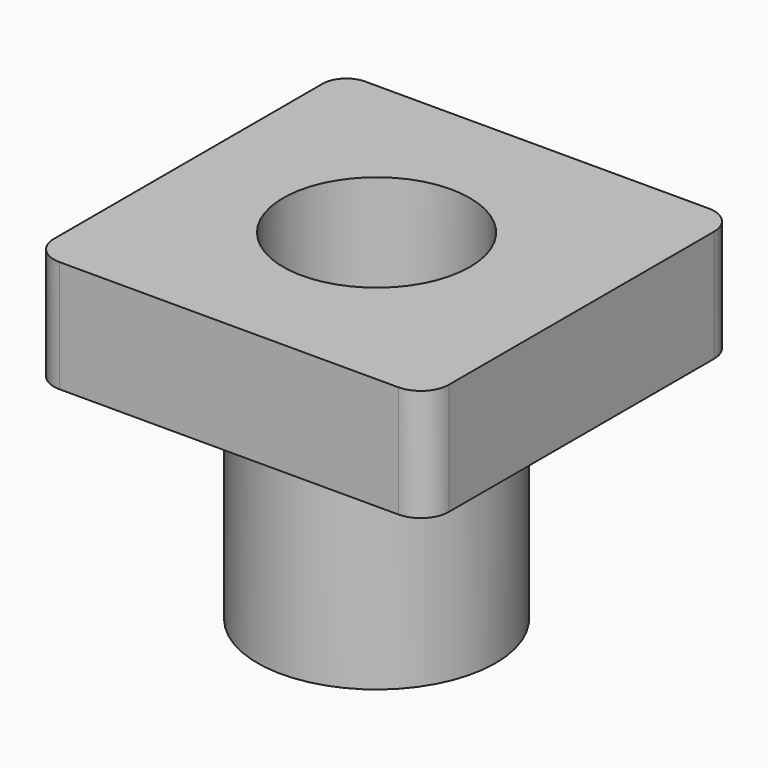
from build123d import *

# Parameters (mm, degrees)
F0_R     = 21.191206
F1_DEPTH = 25.4
F2_R     = 27.018944
F2_R_2   = 21.191206
F3_DEPTH = 51.816


with BuildPart() as f1:
    # F0 (on Top) → F1 (new body)
    with BuildSketch(Plane.XY):
        with BuildLine():
            ThreePointArc((-44.797511, -37.610056), (-42.937639, -42.100184), (-38.447511, -43.960056))
            Line((-38.447511, -43.960056), (38.447511, -43.960056))
            ThreePointArc((38.447511, -43.960056), (42.937639, -42.100184), (44.797511, -37.610056))
            Line((44.797511, -37.610056), (44.797511, 37.610056))
            ThreePointArc((44.797511, 37.610056), (42.937639, 42.100184), (38.447511, 43.960056))
            Line((38.447511, 43.960056), (-39.427399, 43.960056))
            ThreePointArc((-39.427399, 43.960056), (-43.224641, 42.387187), (-44.797511, 38.589944))
            Line((-44.797511, 38.589944), (-44.797511, -37.610056))
        make_face()
        with Locations((-1.689693, 0)):
            Circle(F0_R, mode=Mode.SUBTRACT)
    extrude(amount=F1_DEPTH)

    # F2 (on Top) → F3 (join)
    with BuildSketch(Plane.XY):
        with Locations((-1.689693, 0)):
            Circle(F2_R)
        with Locations((-1.689693, 0)):
            Circle(F2_R_2, mode=Mode.SUBTRACT)
    extrude(amount=-F3_DEPTH)


solid = f1.part
